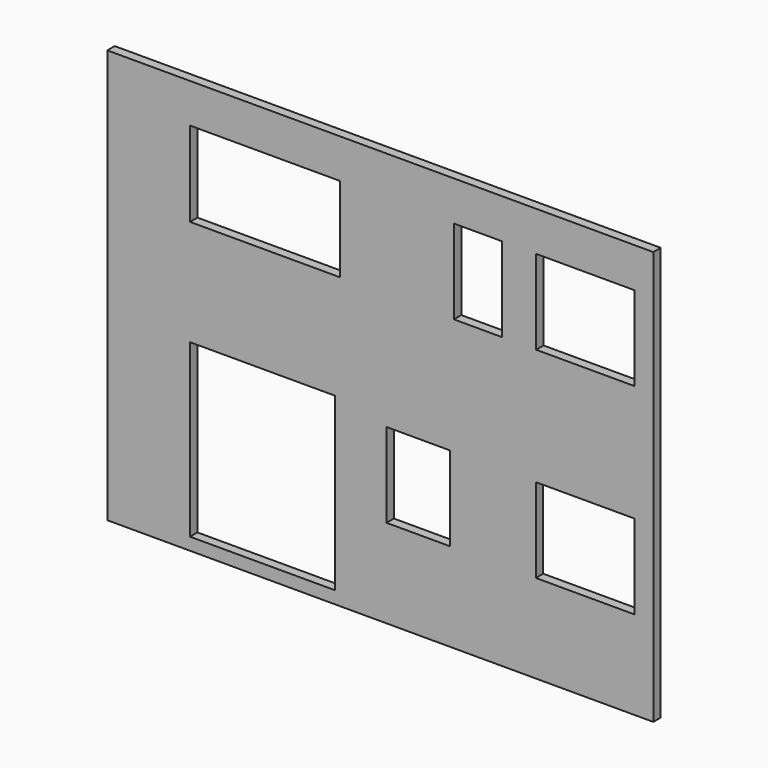
from build123d import *

# Parameters (mm, degrees)
F0_W     = 6600
F0_H     = 5000
F0_W_2   = 1750
F0_H_2   = 2070
F0_W_3   = 770
F0_H_3   = 1020
F0_W_4   = 1195
F0_W_5   = 1815
F0_H_4   = 1025
F0_W_6   = 580
F0_W_7   = 1190
F1_DEPTH = 112


with BuildPart() as f1:
    # F0 (on Front) → F1 (new body)
    with BuildSketch(Plane.XZ):
        with Locations((-11.196087, -273.483865)):
            Rectangle(F0_W, F0_H)
        with Locations((-1436.196087, -1588.483865)):
            Rectangle(F0_W_2, F0_H_2, mode=Mode.SUBTRACT)
        with Locations((448.803913, -1193.483865)):
            Rectangle(F0_W_3, F0_H_3, mode=Mode.SUBTRACT)
        with Locations((2466.303913, -1193.483865)):
            Rectangle(F0_W_4, F0_H_3, mode=Mode.SUBTRACT)
        with Locations((-1403.696087, 1239.016135)):
            Rectangle(F0_W_5, F0_H_4, mode=Mode.SUBTRACT)
        with Locations((1168.803913, 1236.516135)):
            Rectangle(F0_W_6, F0_H_3, mode=Mode.SUBTRACT)
        with Locations((2468.803913, 1236.516135)):
            Rectangle(F0_W_7, F0_H_3, mode=Mode.SUBTRACT)
    extrude(amount=F1_DEPTH)


solid = f1.part
